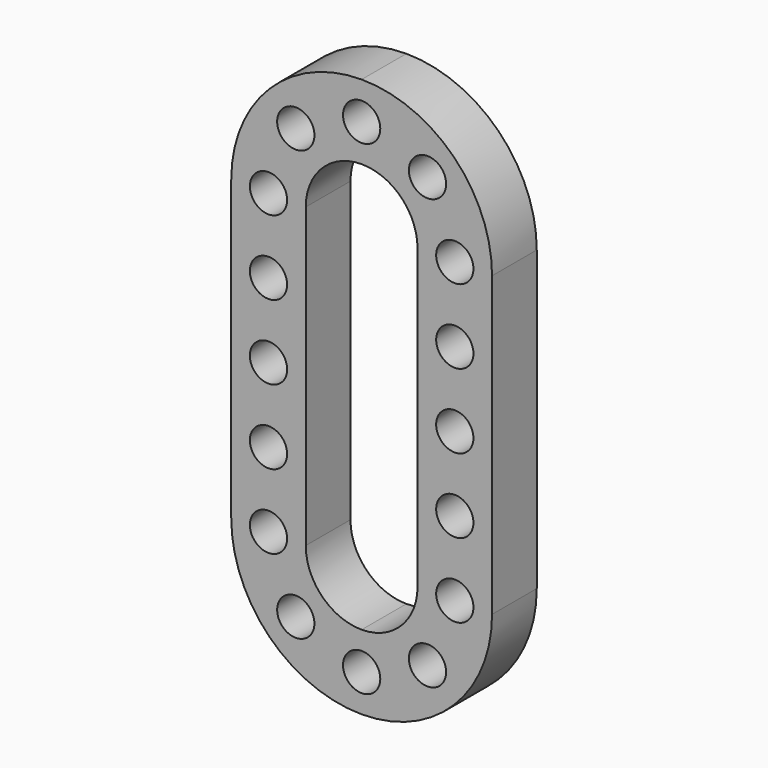
from build123d import *

# Parameters (mm, degrees)
F0_R     = 5
F1_DEPTH = 15


with BuildPart() as f1:
    # F0 (on Front) → F1 (new body)
    with BuildSketch(Plane.XZ):
        with BuildLine():
            ThreePointArc((0, 75), (-24.748737, 64.748737), (-35, 40))
            Line((-35, 40), (-35, 0))
            Line((-35, 0), (-35, -40))
            ThreePointArc((-35, -40), (-24.748737, -64.748737), (0, -75))
            ThreePointArc((0, -75), (24.748737, -64.748737), (35, -40))
            Line((35, -40), (35, 0))
            Line((35, 0), (35, 40))
            ThreePointArc((35, 40), (24.748737, 64.748737), (0, 75))
        make_face()
        with Locations((-17.67767, -57.67767)):
            Circle(F0_R, mode=Mode.SUBTRACT)
        with Locations((-25, -40)):
            Circle(F0_R, mode=Mode.SUBTRACT)
        with Locations((-25, -20)):
            Circle(F0_R, mode=Mode.SUBTRACT)
        with Locations((0, -65)):
            Circle(F0_R, mode=Mode.SUBTRACT)
        with Locations((17.67767, -57.67767)):
            Circle(F0_R, mode=Mode.SUBTRACT)
        with Locations((25, -40)):
            Circle(F0_R, mode=Mode.SUBTRACT)
        with Locations((25, -20)):
            Circle(F0_R, mode=Mode.SUBTRACT)
        with Locations((-25, 0)):
            Circle(F0_R, mode=Mode.SUBTRACT)
        with Locations((-25, 20)):
            Circle(F0_R, mode=Mode.SUBTRACT)
        with Locations((-25, 40)):
            Circle(F0_R, mode=Mode.SUBTRACT)
        with Locations((-17.67767, 57.67767)):
            Circle(F0_R, mode=Mode.SUBTRACT)
        with BuildLine():
            ThreePointArc((-15, 40), (-10.606602, 50.606602), (0, 55))
            ThreePointArc((0, 55), (10.606602, 50.606602), (15, 40))
            Line((15, 40), (15, 0))
            Line((15, 0), (15, -40))
            ThreePointArc((15, -40), (10.606602, -50.606602), (0, -55))
            ThreePointArc((0, -55), (-10.606602, -50.606602), (-15, -40))
            Line((-15, -40), (-15, 0))
            Line((-15, 0), (-15, 40))
        make_face(mode=Mode.SUBTRACT)
        with Locations((25, 0)):
            Circle(F0_R, mode=Mode.SUBTRACT)
        with Locations((25, 20)):
            Circle(F0_R, mode=Mode.SUBTRACT)
        with Locations((0, 65)):
            Circle(F0_R, mode=Mode.SUBTRACT)
        with Locations((25, 40)):
            Circle(F0_R, mode=Mode.SUBTRACT)
        with Locations((17.67767, 57.67767)):
            Circle(F0_R, mode=Mode.SUBTRACT)
    extrude(amount=F1_DEPTH)


solid = f1.part
